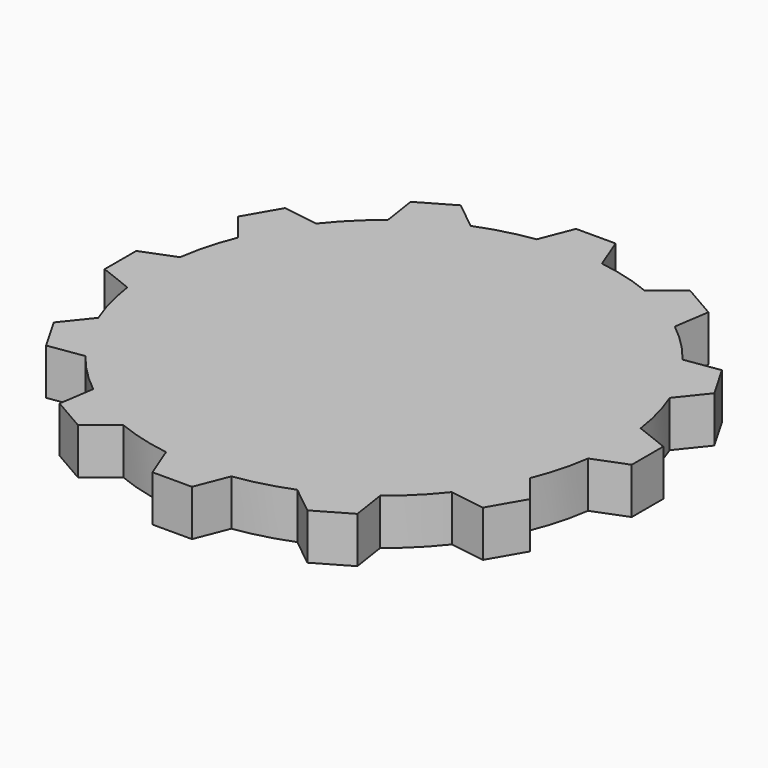
from build123d import *

# Parameters (mm, degrees)
F1_DEPTH = 8.34611


with BuildPart() as f1:
    # F0 (on Top) → F1 (new body)
    with BuildSketch(Plane.XY):
        with BuildLine():
            Line((-3.46595, 47.820143), (-5.820675, 41.831147))
            ThreePointArc((-5.820675, 41.831147), (-10.82496, 40.823343), (-15.671103, 39.219149))
            Line((-15.671103, 39.219149), (-20.716899, 43.257038))
            Line((-20.716899, 43.257038), (-26.911672, 39.680484))
            Line((-26.911672, 39.680484), (-25.956426, 33.316498))
            ThreePointArc((-25.956426, 33.316498), (-29.786362, 29.941572), (-33.181148, 26.129228))
            Line((-33.181148, 26.129228), (-39.56988, 27.103244))
            Line((-39.56988, 27.103244), (-43.146434, 20.908471))
            Line((-43.146434, 20.908471), (-39.137174, 15.874721))
            ThreePointArc((-39.137174, 15.874721), (-40.766533, 11.036981), (-41.800331, 6.038002))
            Line((-41.800331, 6.038002), (-47.820143, 3.687158))
            Line((-47.820143, 3.687158), (-47.820143, -3.46595))
            Line((-47.820143, -3.46595), (-41.831147, -5.820675))
            ThreePointArc((-41.831147, -5.820675), (-40.823343, -10.82496), (-39.219149, -15.671103))
            Line((-39.219149, -15.671103), (-43.257038, -20.716899))
            Line((-43.257038, -20.716899), (-39.680484, -26.911672))
            Line((-39.680484, -26.911672), (-33.316498, -25.956426))
            ThreePointArc((-33.316498, -25.956426), (-29.941572, -29.786362), (-26.129228, -33.181148))
            Line((-26.129228, -33.181148), (-27.103244, -39.56988))
            Line((-27.103244, -39.56988), (-20.908471, -43.146434))
            Line((-20.908471, -43.146434), (-15.874721, -39.137174))
            ThreePointArc((-15.874721, -39.137174), (-11.036981, -40.766533), (-6.038002, -41.800331))
            Line((-6.038002, -41.800331), (-3.687158, -47.820143))
            Line((-3.687158, -47.820143), (3.46595, -47.820143))
            Line((3.46595, -47.820143), (5.820675, -41.831147))
            ThreePointArc((5.820675, -41.831147), (10.82496, -40.823343), (15.671103, -39.219149))
            Line((15.671103, -39.219149), (20.716899, -43.257038))
            Line((20.716899, -43.257038), (26.911672, -39.680484))
            Line((26.911672, -39.680484), (25.956426, -33.316498))
            ThreePointArc((25.956426, -33.316498), (29.786362, -29.941572), (33.181148, -26.129228))
            Line((33.181148, -26.129228), (39.56988, -27.103244))
            Line((39.56988, -27.103244), (43.146434, -20.908471))
            Line((43.146434, -20.908471), (39.137174, -15.874721))
            ThreePointArc((39.137174, -15.874721), (40.766533, -11.036981), (41.800331, -6.038002))
            Line((41.800331, -6.038002), (47.820143, -3.687158))
            Line((47.820143, -3.687158), (47.820143, 3.46595))
            Line((47.820143, 3.46595), (41.831147, 5.820675))
            ThreePointArc((41.831147, 5.820675), (40.823343, 10.82496), (39.219149, 15.671103))
            Line((39.219149, 15.671103), (43.257038, 20.716899))
            Line((43.257038, 20.716899), (39.680484, 26.911672))
            Line((39.680484, 26.911672), (33.316498, 25.956426))
            ThreePointArc((33.316498, 25.956426), (29.941572, 29.786362), (26.129228, 33.181148))
            Line((26.129228, 33.181148), (27.103244, 39.56988))
            Line((27.103244, 39.56988), (20.908471, 43.146434))
            Line((20.908471, 43.146434), (15.874721, 39.137174))
            ThreePointArc((15.874721, 39.137174), (11.036981, 40.766533), (6.038002, 41.800331))
            Line((6.038002, 41.800331), (3.687158, 47.820143))
            Line((3.687158, 47.820143), (-3.46595, 47.820143))
        make_face()
    extrude(amount=F1_DEPTH)


solid = f1.part
